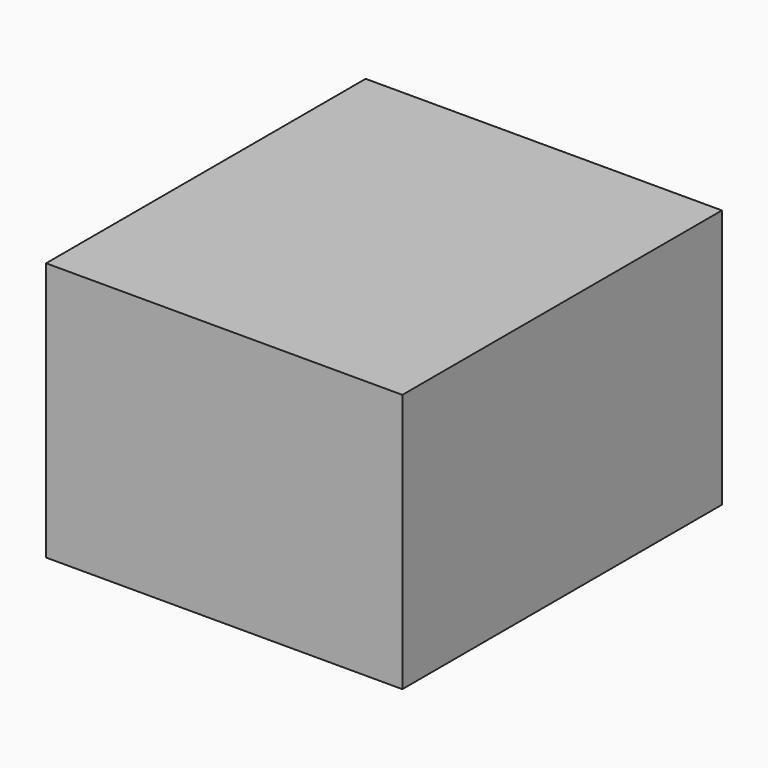
from build123d import *

# Parameters (mm, degrees)
F0_W     = 104.775
F0_H     = 117.475
F0_W_2   = 92.075
F0_H_2   = 104.775
F1_DEPTH = 69.85
F2_W     = 104.775
F2_H     = 117.475
F2_W_2   = 92.075
F2_H_2   = 104.775
F3_DEPTH = 6.35


with BuildPart() as f1:
    # F0 (on Top) → F1 (new body)
    with BuildSketch(Plane.XY):
        with Locations((52.3875, 58.7375)):
            Rectangle(F0_W, F0_H)
        with Locations((52.3875, 58.7375)):
            Rectangle(F0_W_2, F0_H_2, mode=Mode.SUBTRACT)
    extrude(amount=F1_DEPTH)

    # F2 (on face) → F3 (join)
    with BuildSketch(Plane.XY.offset(69.85)):
        with Locations((52.3875, 58.7375)):
            Rectangle(F2_W, F2_H)
        with Locations((52.3875, 58.7375)):
            Rectangle(F2_W_2, F2_H_2, mode=Mode.SUBTRACT)
        with Locations((52.3875, 58.7375)):
            Rectangle(F2_W_2, F2_H_2)
    extrude(amount=F3_DEPTH)


solid = f1.part
